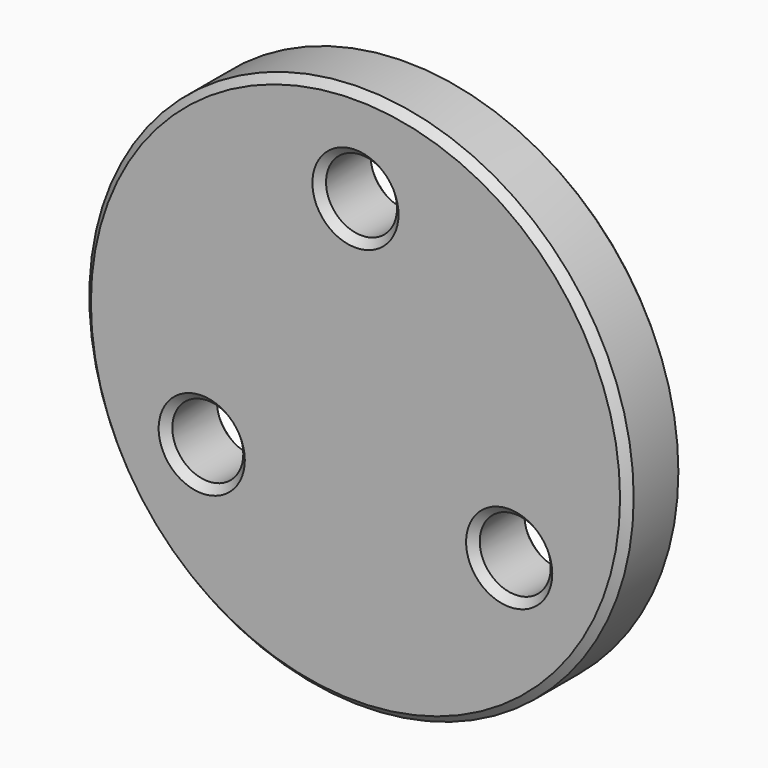
from build123d import *

# Parameters (mm, degrees)
F0_R     = 36.5125
F0_R_2   = 4.7625
F1_DEPTH = 9.525
F2_SIZE  = 1.016


with BuildPart() as f1:
    # F0 (on Front) → F1 (new body)
    with BuildSketch(Plane.XZ):
        Circle(F0_R)
        with Locations((-20.62223, -11.90625)):
            Circle(F0_R_2, mode=Mode.SUBTRACT)
        with Locations((20.62223, -11.90625)):
            Circle(F0_R_2, mode=Mode.SUBTRACT)
        with Locations((0, 23.8125)):
            Circle(F0_R_2, mode=Mode.SUBTRACT)
    extrude(amount=F1_DEPTH)

    # F2
    f2_edges = [f1.edges().sort_by_distance(p)[0] for p in [
        (-36.5125, -9.525, 0),
        (-25.38473, -9.525, -11.90625),
        (15.85973, -9.525, -11.90625),
        (-4.7625, -9.525, 23.8125),
        (-36.5125, 0, 0),
        (-25.38473, 0, -11.90625),
        (15.85973, 0, -11.90625),
        (-4.7625, 0, 23.8125),
    ]]
    chamfer(f2_edges, length=F2_SIZE)


solid = f1.part
